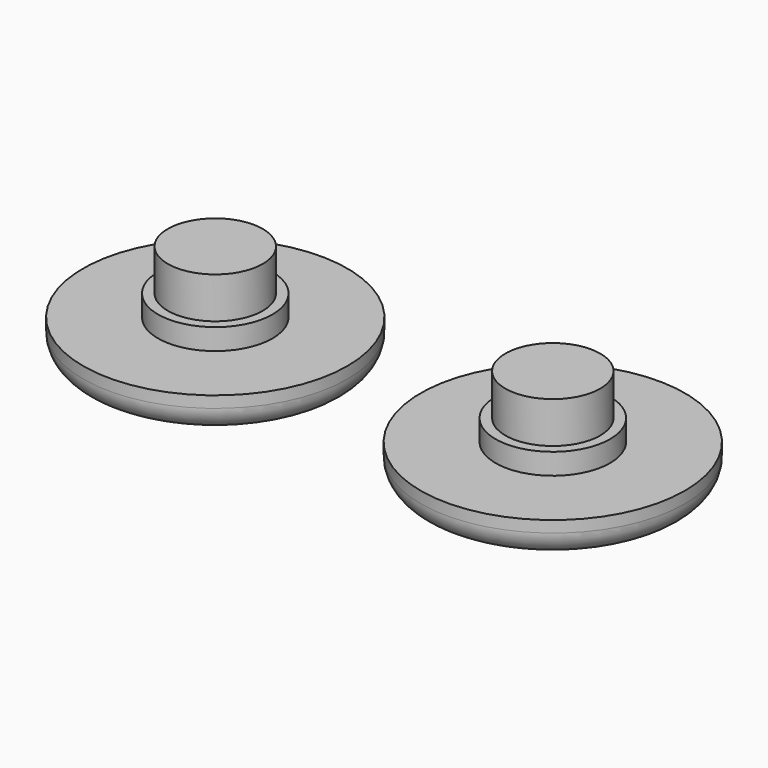
from build123d import *

# Parameters (mm, degrees)
F0_R     = 11.1379
F1_DEPTH = 2.9972
F2_R     = 4.826
F3_DEPTH = 1.778
F4_R     = 4.0005
F5_DEPTH = 3.4798
F7_R     = 2.032


with BuildPart() as f1:
    # F0 (on Top) → F1 (new body)
    with BuildSketch(Plane.XY):
        Circle(F0_R)
    extrude(amount=-F1_DEPTH)

    # F2 (on face) → F3 (join)
    with BuildSketch(Plane.XY):
        Circle(F2_R)
    extrude(amount=F3_DEPTH)

    # F4 (on face) → F5 (join)
    with BuildSketch(Plane.XY.offset(1.778)):
        Circle(F4_R)
    extrude(amount=F5_DEPTH)

    # F7
    f7_edges = [f1.edges().sort_by_distance(p)[0] for p in [
        (-11.1379, 0, -2.9972),
    ]]
    fillet(f7_edges, radius=F7_R)


with BuildPart() as f6_1:
    # F6: copy of F1
    add(f1.part.moved(Location((28.448, 0, 0))))


solid = Compound([f1.part, f6_1.part])
